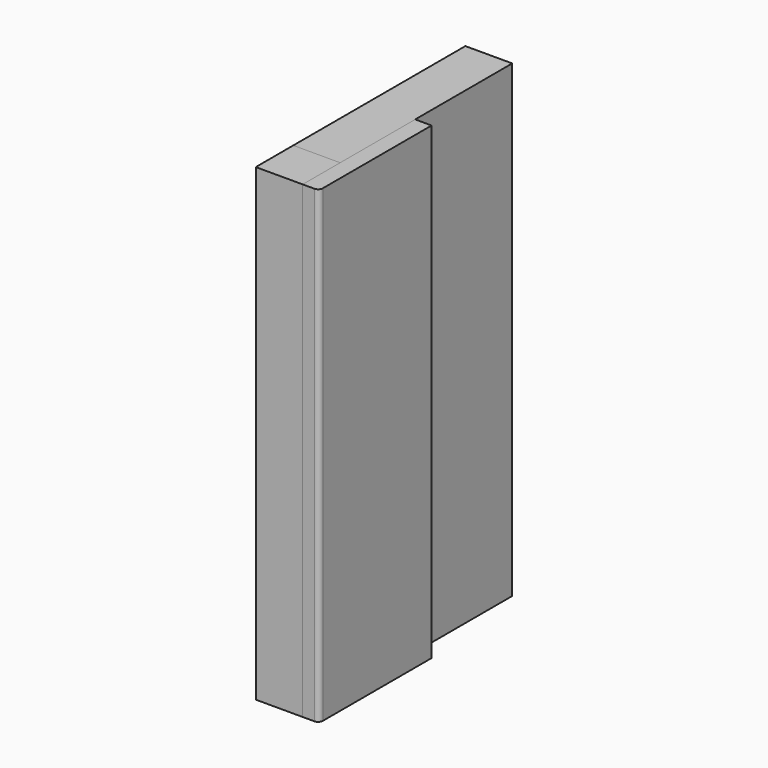
from build123d import *

# Parameters (mm, degrees)
F0_W      = 116.530262
F0_H      = 254
F1_DEPTH  = 25.4
F1_FACE_W = 25.4
F1_FACE_H = 254
F2_DEPTH  = 25.4
F3_W      = 50.8
F3_H      = 254
F3_W_2    = 25.4
F4_DEPTH  = 8.89
F5_R      = 2.54


with BuildPart() as f1:
    # F0 (on Right) → F1 (new body)
    with BuildSketch(Plane.YZ):
        with Locations((58.265131, 127)):
            Rectangle(F0_W, F0_H)
    extrude(amount=F1_DEPTH)


with BuildPart() as f2:
    # F1_face (on face) → F2 (new body)
    with BuildSketch(Plane(origin=(12.7, 0, 127), x_dir=(1, 0, 0), z_dir=(0, -1, 0))):
        Rectangle(F1_FACE_W, F1_FACE_H)
    extrude(amount=F2_DEPTH)


with BuildPart() as f4:
    # F3 (on face) → F4 (new body)
    with BuildSketch(Plane.YZ.offset(25.4)):
        with Locations((25.4, 127)):
            Rectangle(F3_W, F3_H)
        with Locations((-12.7, 127)):
            Rectangle(F3_W_2, F3_H)
    extrude(amount=F4_DEPTH)

    # F5
    f5_edges = [f4.edges().sort_by_distance(p)[0] for p in [
        (34.29, -25.4, 127),
    ]]
    fillet(f5_edges, radius=F5_R)


solid = Compound([f1.part, f2.part, f4.part])
